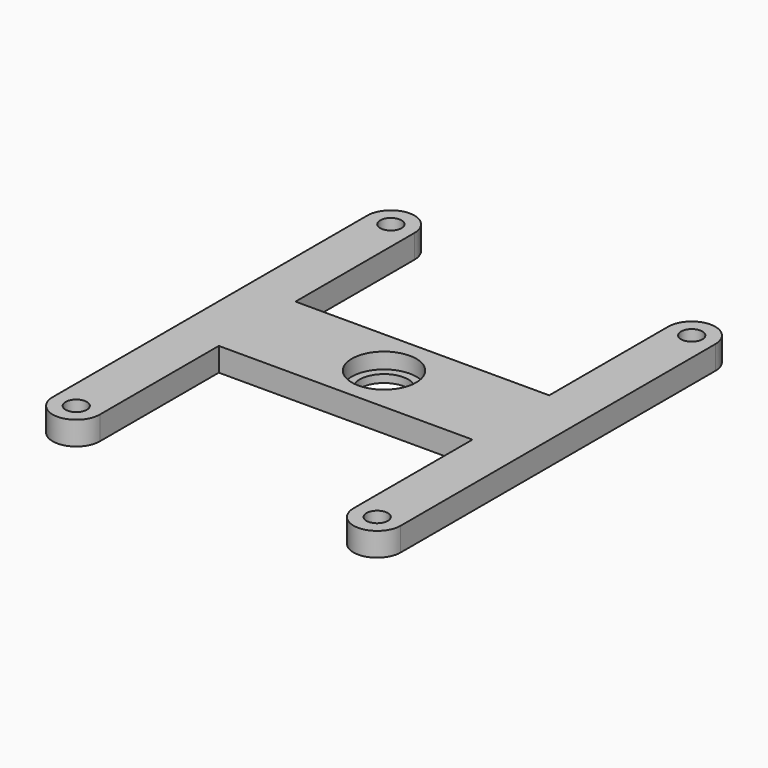
from build123d import *

# Parameters (mm, degrees)
F0_R     = 2.15265
F0_R_2   = 4.9149
F1_DEPTH = 4.7625
F2_R     = 6.5024
F3_DEPTH = 3.175


with BuildPart() as f1:
    # F0 (on Top) → F1 (new body)
    with BuildSketch(Plane.XY):
        with BuildLine():
            ThreePointArc((9.525, 0), (4.7625, 4.7625), (0, 0))
            Line((0, 0), (0, -79.375))
            ThreePointArc((0, -79.375), (4.7625, -84.1375), (9.525, -79.375))
            Line((9.525, -79.375), (9.525, -49.3649))
            Line((9.525, -49.3649), (60.735159, -49.3649))
            Line((60.735159, -49.3649), (60.735159, -79.375))
            ThreePointArc((60.735159, -79.375), (65.497659, -84.1375), (70.260159, -79.375))
            Line((70.260159, -79.375), (70.260159, 0))
            ThreePointArc((70.260159, 0), (65.497659, 4.7625), (60.735159, 0))
            Line((60.735159, 0), (60.735159, -30.0101))
            Line((60.735159, -30.0101), (9.525, -30.0101))
            Line((9.525, -30.0101), (9.525, 0))
        make_face()
        with Locations((4.7625, -79.375)):
            Circle(F0_R, mode=Mode.SUBTRACT)
        with Locations((65.497659, -79.375)):
            Circle(F0_R, mode=Mode.SUBTRACT)
        with Locations((4.7625, 0)):
            Circle(F0_R, mode=Mode.SUBTRACT)
        with Locations((35.13008, -39.6875)):
            Circle(F0_R_2, mode=Mode.SUBTRACT)
        with Locations((65.497659, 0)):
            Circle(F0_R, mode=Mode.SUBTRACT)
    extrude(amount=F1_DEPTH)

    # F2 (on face) → F3 (cut)
    with BuildSketch(Plane.XY.offset(4.7625)):
        with Locations((35.13008, -39.6875)):
            Circle(F2_R)
    extrude(amount=-F3_DEPTH, mode=Mode.SUBTRACT)


solid = f1.part
